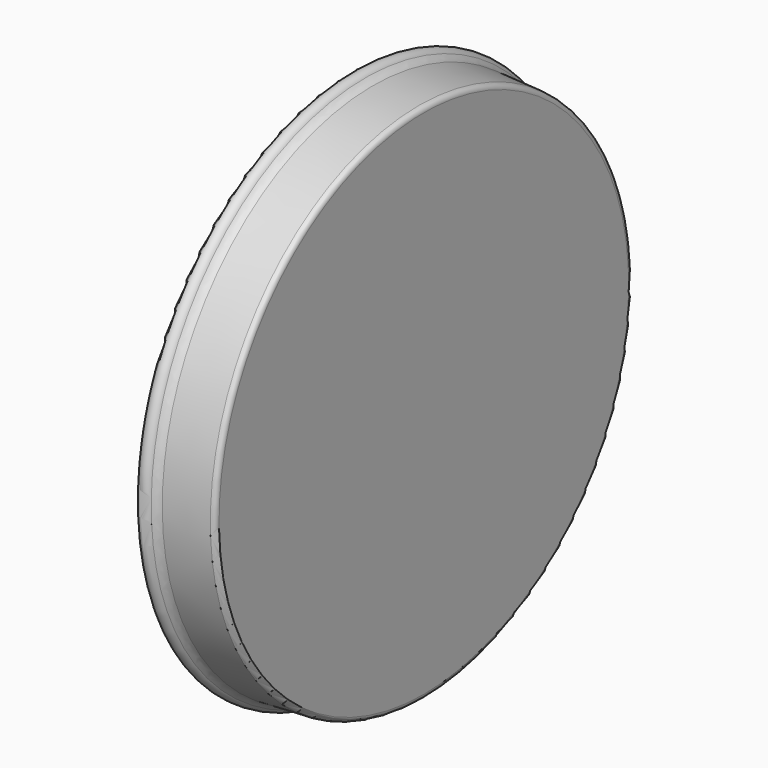
from build123d import *

# Parameters (mm, degrees)
F2_R = 17.4752
F3_R = 9.525


with BuildPart() as f1:
    # F0 (on Front) → F1 (revolve)
    with BuildSketch(Plane.XZ):
        with BuildLine():
            ThreePointArc((14.663257, -507.274381), (-0.36292, -493.323286), (-14.6812, -508))
            ThreePointArc((-14.6812, -508), (0, -522.6812), (14.6812, -508))
            ThreePointArc((14.6812, -508), (14.676714, -507.63708), (14.663257, -507.274381))
        make_face()
        with BuildLine():
            Line((-14.6812, 0), (-14.6812, -508))
            ThreePointArc((-14.6812, -508), (-0.36292, -493.323286), (14.663257, -507.274381))
            Line((14.663257, -507.274381), (125.0188, -501.813381))
            Line((125.0188, -501.813381), (125.0188, 0))
            Line((125.0188, 0), (-14.6812, 0))
        make_face()
    revolve(axis=Axis((55.1688, 0, 0), (1, 0, 0)))

    # F2
    f2_edges = [f1.edges().sort_by_distance(p)[0] for p in [
        (14.663257, 0, 507.274381),
    ]]
    fillet(f2_edges, radius=F2_R)

    # F3
    f3_edges = [f1.edges().sort_by_distance(p)[0] for p in [
        (125.0188, 0, 501.813381),
    ]]
    fillet(f3_edges, radius=F3_R)


solid = f1.part
